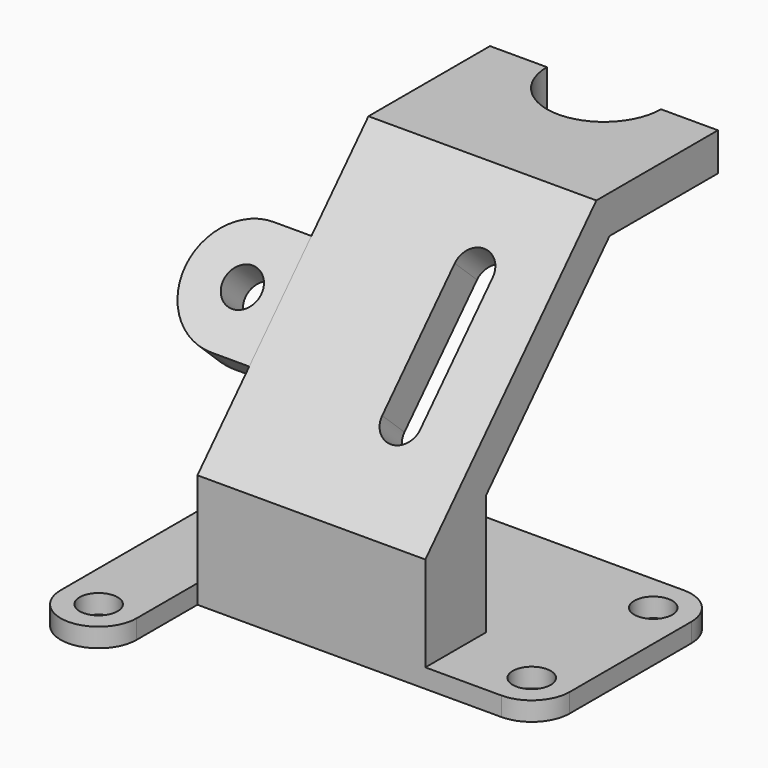
from build123d import *

# Parameters (mm, degrees)
F1_DEPTH  = 2
F3_DEPTH  = 24
F4_R      = 2
F5_DEPTH  = 2.001
F6_R      = 4
F8_DEPTH  = 4
F9_R      = 2
F10_DEPTH = 4
F12_DEPTH = 4


with BuildPart() as f1:
    # F0 (on Top) → F1 (new body)
    with BuildSketch(Plane.XY):
        with BuildLine():
            Line((0, 24), (0, 0))
            Line((0, 0), (0, -8))
            ThreePointArc((0, -8), (4, -12), (8, -8))
            Line((8, -8), (8, 0))
            Line((8, 0), (44, 0))
            Line((44, 0), (44, 24))
            Line((44, 24), (0, 24))
        make_face()
    extrude(amount=F1_DEPTH)

    # F2 (on face) → F3 (join)
    with BuildSketch(Plane.YZ.offset(8)):
        Polygon((0, 12), (0, 2), (8, 2), (8, 14.7138329376), (24.2451953819, 32.1346721534), (38.5059458821, 32.1346721534), (38.5059458821, 36.1346721534), (22.5059458821, 36.1346721534), align=None)
    extrude(amount=F3_DEPTH)

    # F4 (on face) → F5 (cut, through all)
    with BuildSketch(Plane.XY.offset(2)):
        with Locations((4, -8)):
            Circle(F4_R)
        with Locations((40, 4)):
            Circle(F4_R)
        with Locations((40, 20)):
            Circle(F4_R)
        with Locations((4, 20)):
            Circle(F4_R)
    extrude(amount=-F5_DEPTH, mode=Mode.SUBTRACT)

    # F6
    f6_edges = [f1.edges().sort_by_distance(p)[0] for p in [
        (44, 0, 1),
        (44, 24, 1),
        (0, 24, 1),
    ]]
    fillet(f6_edges, radius=F6_R)

    # F7 (on face) → F8 (cut)
    with BuildSketch(Plane.XY.offset(36.1346721534)):
        with BuildLine():
            Line((26, 38.5059458821), (14, 38.5059458821))
            ThreePointArc((14, 38.5059458821), (20, 32.5059458821), (26, 38.5059458821))
        make_face()
    extrude(amount=-F8_DEPTH, mode=Mode.SUBTRACT)

    # F9 (on face) → F10 (join)
    with BuildSketch(Plane(origin=(0, -5.9853843016, 5.5814611575), x_dir=(1, 0, 0), z_dir=(0, -0.7313537016, 0.6819983601))):
        with BuildLine():
            Line((8, 18.7762444194), (8, 30.7762444194))
            Line((8, 30.7762444194), (4, 30.7762444194))
            ThreePointArc((4, 30.7762444194), (-2, 24.7762444194), (4, 18.7762444194))
            Line((4, 18.7762444194), (8, 18.7762444194))
        make_face()
        with Locations((4, 24.7762444194)):
            Circle(F9_R, mode=Mode.SUBTRACT)
    extrude(amount=-F10_DEPTH)

    # F11 (on face) → F12 (cut)
    with BuildSketch(Plane(origin=(0, -5.9853843016, 5.5814611575), x_dir=(1, 0, 0), z_dir=(0, -0.7313537016, 0.6819983601))):
        with BuildLine():
            Line((26, 18.7762444194), (26, 32.7762444194))
            ThreePointArc((26, 32.7762444194), (24, 34.7762444194), (22, 32.7762444194))
            Line((22, 32.7762444194), (22, 18.7762444194))
            ThreePointArc((22, 18.7762444194), (24, 16.7762444194), (26, 18.7762444194))
        make_face()
    extrude(amount=-F12_DEPTH, mode=Mode.SUBTRACT)


solid = f1.part
